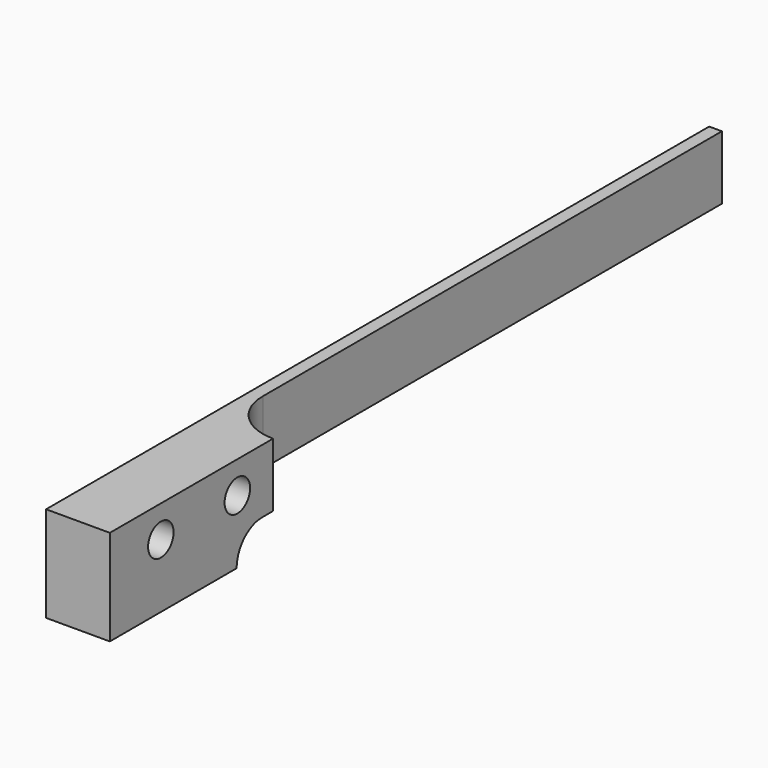
from build123d import *

# Parameters (mm, degrees)
F1_DEPTH = 12.7
F2_R     = 3.175
F3_DEPTH = 25.4
F4_DEPTH = 6.35
F6_DEPTH = 25.4


with BuildPart() as f1:
    # F0 (on Top) → F1 (new body)
    with BuildSketch(Plane.XY):
        with BuildLine():
            Line((35.9911476828, 94.3723806679), (33.4511476828, 94.3723806679))
            Line((33.4511476828, 94.3723806679), (33.4511476828, -70.7276193321))
            Line((33.4511476828, -70.7276193321), (46.1511476828, -70.7276193321))
            Line((46.1511476828, -70.7276193321), (46.1511476828, -30.0876193321))
            ThreePointArc((46.1511476828, -30.0876193321), (38.9669427859, -27.1118242289), (35.9911476828, -19.9276193321))
            Line((35.9911476828, -19.9276193321), (35.9911476828, 94.3723806679))
        make_face()
    extrude(amount=F1_DEPTH)

    # F2 (on face) → F3 (cut)
    with BuildSketch(Plane(origin=(33.4511476828, 0, 0), x_dir=(0, -1, 0), z_dir=(-1, 0, 0))):
        with Locations((58.0276193321, 6.35)):
            Circle(F2_R)
        with Locations((38.9776193321, 6.35)):
            Circle(F2_R)
    extrude(amount=-F3_DEPTH, mode=Mode.SUBTRACT)

    # F4 (add): a face of the model
    f4_faces = [f1.faces().sort_by_distance(p)[0] for p in [
        (34.3352702719, 37.2223806679, 0),
    ]]
    extrude(f4_faces, amount=F4_DEPTH)

    # F5 (on face) → F6 (cut)
    with BuildSketch(Plane(origin=(33.4511476828, 0, 0), x_dir=(0, -1, 0), z_dir=(-1, 0, 0))):
        with BuildLine():
            Line((32.8058376908, 0), (-94.3723806679, 0))
            Line((-94.3723806679, 0), (-94.3723806679, -6.35))
            Line((-94.3723806679, -6.35), (39.1558376908, -6.35))
            ThreePointArc((39.1558376908, -6.35), (37.2959657514, -1.8598719395), (32.8058376908, 0))
        make_face()
    extrude(amount=-F6_DEPTH, mode=Mode.SUBTRACT)


solid = f1.part
